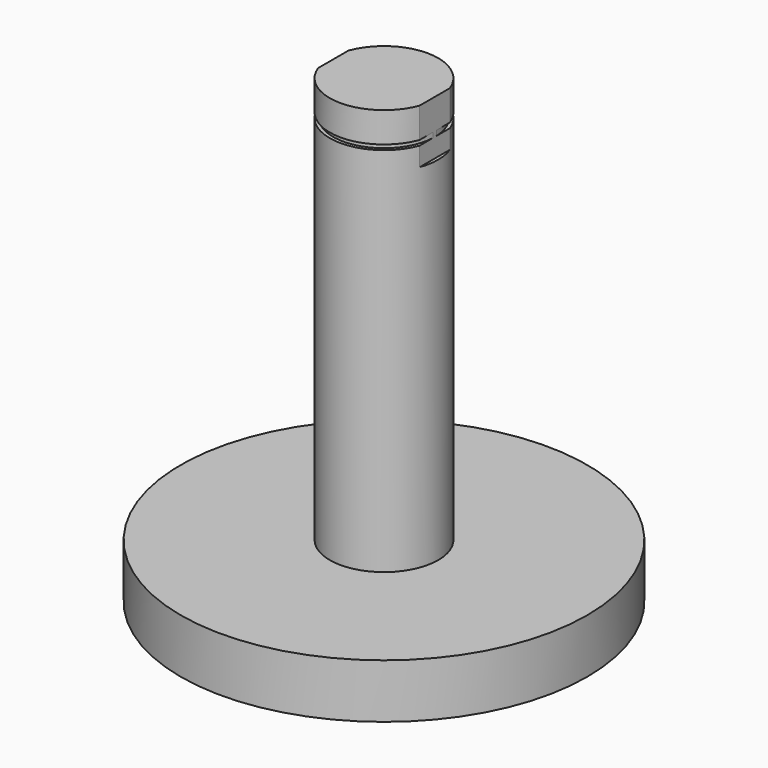
from build123d import *

# Parameters (mm, degrees)
F0_R             = 75
F0_R_2           = 20
F1_DEPTH         = 20
F2_DEPTH         = 150
F4_D             = 10.3
F4_DEPTH         = 50.5
F4_CBORE_D       = 19.25
F4_CBORE_DEPTH   = 12
F4_TIP           = 3.094432188
F4_2_D           = 10.3
F4_2_DEPTH       = 50.5
F4_2_CBORE_D     = 19.25
F4_2_CBORE_DEPTH = 12
F4_2_TIP         = 3.094432188
F8_DEPTH         = 20
F10_R            = 20
F10_R_2          = 18.75
F11_DEPTH        = 1.85


with BuildPart() as f1:
    # F0 (on Top) → F1 (new body)
    with BuildSketch(Plane.XY):
        Circle(F0_R)
        Circle(F0_R_2, mode=Mode.SUBTRACT)
        Circle(F0_R_2)
    extrude(amount=-F1_DEPTH)

    # F4
    with Locations(Plane(origin=(0, 0, -20), x_dir=(1, 0, 0), z_dir=(0, 0, -1))):
        with Locations((0, 0)):
            CounterBoreHole(F4_D / 2, F4_CBORE_D / 2, F4_CBORE_DEPTH, depth=F4_DEPTH)
            with Locations((0, 0, -(F4_DEPTH + F4_TIP / 2))):  # 118° drill point
                Cone(0, F4_D / 2, F4_TIP, mode=Mode.SUBTRACT)


with BuildPart() as f2:
    # F0 (on Top) → F2 (new body)
    with BuildSketch(Plane.XY):
        Circle(F0_R_2)
    extrude(amount=F2_DEPTH)

    # F4#2
    with Locations(Plane(origin=(0, 0, -20), x_dir=(1, 0, 0), z_dir=(0, 0, -1))):
        with Locations((0, 0)):
            CounterBoreHole(F4_2_D / 2, F4_2_CBORE_D / 2, F4_2_CBORE_DEPTH, depth=F4_2_DEPTH)
            with Locations((0, 0, -(F4_2_DEPTH + F4_2_TIP / 2))):  # 118° drill point
                Cone(0, F4_2_D / 2, F4_2_TIP, mode=Mode.SUBTRACT)


with BuildPart() as f6_tool:
    # F5 (on Right) → F6 (revolve)
    with BuildSketch(Plane.YZ):
        Polygon((6, 25.25), (5.15, 27), (5.15, 25.25), align=None)
        Polygon((5.15, -8), (6, -8), (5.15, -6.25), align=None)
    revolve(axis=Axis((0, 0, 3.5), (0, 0, 1)))


with BuildPart() as f1_1:
    add(f1.part)

    # F6: cut by f6_tool
    add(f6_tool.part, mode=Mode.SUBTRACT)


with BuildPart() as f2_1:
    add(f2.part)

    # F6: cut by f6_tool
    add(f6_tool.part, mode=Mode.SUBTRACT)

    # F7 (on face) → F8 (cut)
    with BuildSketch(Plane.XY.offset(150)):
        with BuildLine():
            Line((-20, 0), (-18.7314898701, 0))
            Line((-18.7314898701, 0), (-18.7314898701, 7.0093713873))
            ThreePointArc((-18.7314898701, 7.0093713873), (-19.6803175457, 3.5616149846), (-20, 0))
        make_face()
        with BuildLine():
            Line((-18.7314898701, -7.0093713873), (-18.7314898701, 0))
            Line((-18.7314898701, 0), (-20, 0))
            ThreePointArc((-20, 0), (-19.6803175457, -3.5616149846), (-18.7314898701, -7.0093713873))
        make_face()
        with BuildLine():
            ThreePointArc((20, 0), (19.6803175457, 3.5616149846), (18.7314898701, 7.0093713873))
            Line((18.7314898701, 7.0093713873), (18.7314898701, 0))
            Line((18.7314898701, 0), (18.7314898701, -7.0093713873))
            ThreePointArc((18.7314898701, -7.0093713873), (19.6803175457, -3.5616149846), (20, 0))
        make_face()
    extrude(amount=-F8_DEPTH, mode=Mode.SUBTRACT)

    # F10 (on offset) → F11 (cut)
    with BuildSketch(Plane.XY.offset(137)):
        Circle(F10_R)
        Circle(F10_R_2, mode=Mode.SUBTRACT)
    extrude(amount=F11_DEPTH, mode=Mode.SUBTRACT)


solid = Compound([f1_1.part, f2_1.part])
